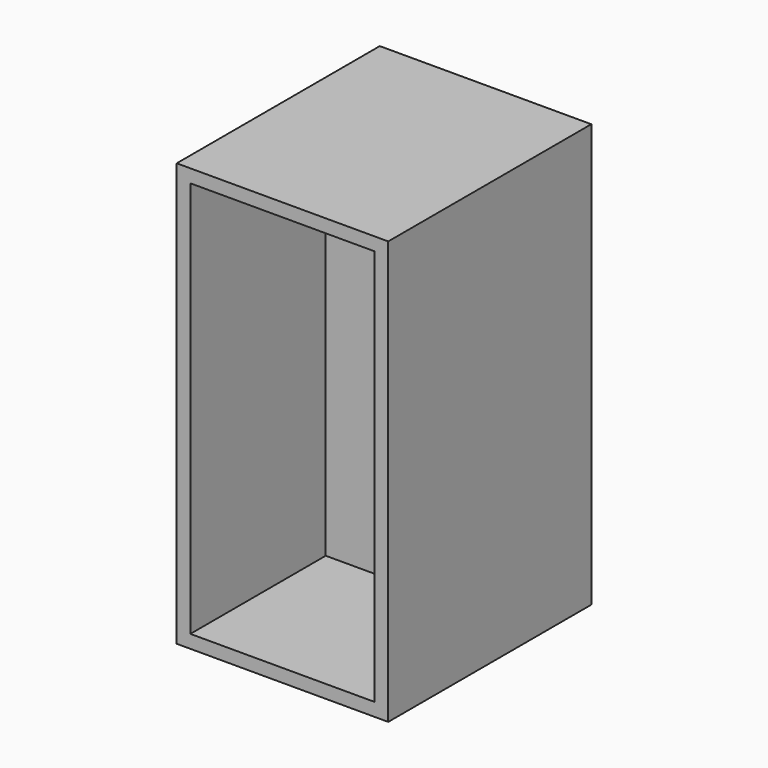
from build123d import *

# Parameters (mm, degrees)
F0_W     = 63.5
F0_H     = 127
F0_W_2   = 55.306454
F0_H_2   = 119.093224
F1_DEPTH = 76.2
F2_DEPTH = 25.4


with BuildPart() as f1:
    # F0 (on Front) → F1 (new body)
    with BuildSketch(Plane.XZ):
        Rectangle(F0_W, F0_H)
        Rectangle(F0_W_2, F0_H_2, mode=Mode.SUBTRACT)
    extrude(amount=F1_DEPTH)


with BuildPart() as f2:
    # F0 (on Front) → F2 (new body)
    with BuildSketch(Plane.XZ):
        Rectangle(F0_W_2, F0_H_2)
    extrude(amount=F2_DEPTH)


solid = Compound([f1.part, f2.part])
